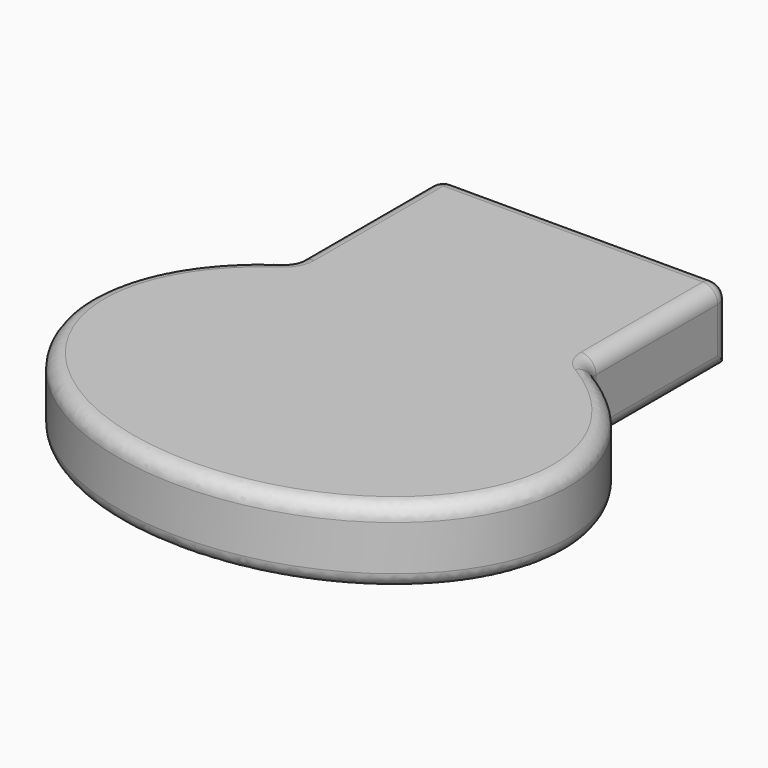
from build123d import *

# Parameters (mm, degrees)
F1_DEPTH = 25.4
F2_R     = 5.08


with BuildPart() as f1:
    # F0 (on Top) → F1 (new body)
    with BuildSketch(Plane.XY):
        with BuildLine():
            add(Edge.make_bspline(
                [(46.586951, 51.943274), (25.625325, 63.5), (0, 63.5)],
                knots=[4.099526, 4.099526, 4.099526, 4.712389, 4.712389, 4.712389], degree=2, weights=[1, 0.953416, 1]))
            add(Edge.make_bspline(
                [(0, 63.5), (-28.979378, 63.5), (-51.380593, 49.085841)],
                knots=[4.712389, 4.712389, 4.712389, 5.39962, 5.39962, 5.39962], degree=2, weights=[1, 0.941543, 1]))
            add(Edge.make_bspline(
                [(-51.380593, 49.085841), (-237.17055, -70.461512), (3.010873, -63.456106), (243.192296, -56.4507), (46.586951, 51.943274)],
                knots=[5.39962, 5.39962, 5.39962, 7.891166, 7.891166, 10.382711, 10.382711, 10.382711], degree=2, weights=[1, 0.319331, 1, 0.319331, 1]))
        make_face()
        with BuildLine():
            add(Edge.make_bspline(
                [(0, 63.5), (-28.979378, 63.5), (-51.380593, 49.085841)],
                knots=[4.712389, 4.712389, 4.712389, 5.39962, 5.39962, 5.39962], degree=2, weights=[1, 0.941543, 1]))
            add(Edge.make_bspline(
                [(46.586951, 51.943274), (25.625325, 63.5), (0, 63.5)],
                knots=[4.099526, 4.099526, 4.099526, 4.712389, 4.712389, 4.712389], degree=2, weights=[1, 0.953416, 1]))
            Line((46.586951, 51.943274), (46.586951, 111.428356))
            Line((46.586951, 111.428356), (-51.380593, 111.428356))
            Line((-51.380593, 111.428356), (-51.380593, 49.085841))
        make_face()
        with BuildLine():
            add(Edge.make_bspline(
                [(0, 63.5), (-28.979378, 63.5), (-51.380593, 49.085841)],
                knots=[4.712389, 4.712389, 4.712389, 5.39962, 5.39962, 5.39962], degree=2, weights=[1, 0.941543, 1]))
            add(Edge.make_bspline(
                [(46.586951, 51.943274), (25.625325, 63.5), (0, 63.5)],
                knots=[4.099526, 4.099526, 4.099526, 4.712389, 4.712389, 4.712389], degree=2, weights=[1, 0.953416, 1]))
            Line((46.586951, 51.943274), (46.586951, 111.428356))
            Line((46.586951, 111.428356), (-51.380593, 111.428356))
            Line((-51.380593, 111.428356), (-51.380593, 49.085841))
        make_face()
    extrude(amount=F1_DEPTH)

    # F2
    f2_edges = [f1.edges().sort_by_distance(p)[0] for p in [
        (2.790522, -63.462297, 0),
        (2.790522, -63.462297, 25.4),
        (46.586951, 81.685815, 0),
        (-2.396821, 111.428356, 25.4),
        (46.586951, 111.428356, 12.7),
        (-51.380593, 80.257099, 25.4),
        (46.586951, 81.685815, 25.4),
        (-51.380593, 49.085841, 12.7),
        (-51.380593, 80.257099, 0),
        (-51.380593, 111.428356, 12.7),
        (46.586951, 51.943274, 12.7),
    ]]
    fillet(f2_edges, radius=F2_R)


solid = f1.part
